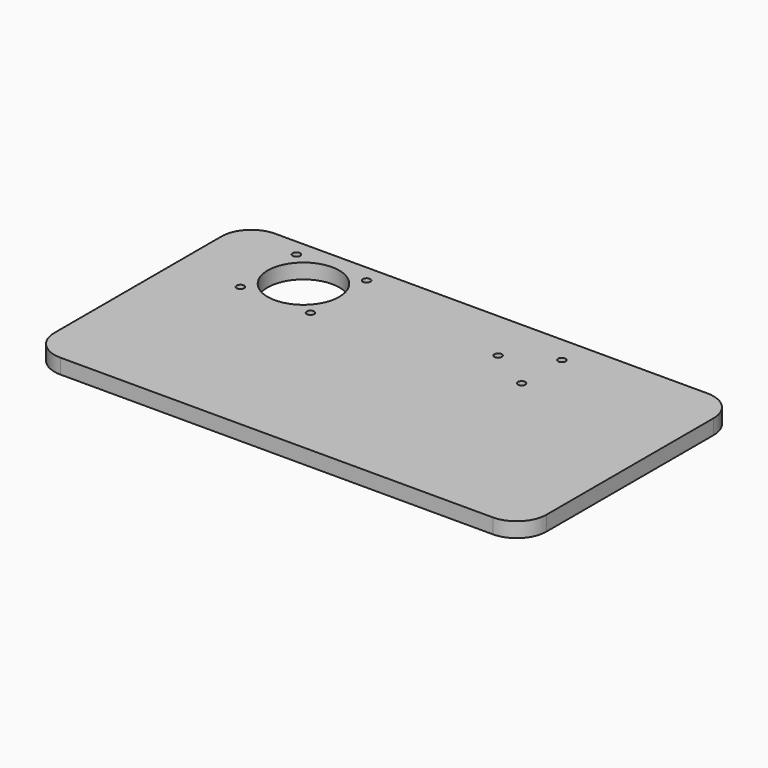
from build123d import *

# Parameters (mm, degrees)
SKETCH_W   = 330
SKETCH_H   = 180
SKETCH_R   = 2.5
SKETCH_R_2 = 24
PAD_DEPTH  = 10
FILLET_R   = 20


with BuildPart() as part:
    # Sketch → Pad (new body)
    with BuildSketch(Plane.XY):
        with Locations((98, -55)):
            Rectangle(SKETCH_W, SKETCH_H)
        with Locations((23.5, 23.5)):
            Circle(SKETCH_R, mode=Mode.SUBTRACT)
        with Locations((-23.5, 23.5)):
            Circle(SKETCH_R, mode=Mode.SUBTRACT)
        with Locations((-23.5, -23.5)):
            Circle(SKETCH_R, mode=Mode.SUBTRACT)
        with Locations((23.5, -23.5)):
            Circle(SKETCH_R, mode=Mode.SUBTRACT)
        Circle(SKETCH_R_2, mode=Mode.SUBTRACT)
        with Locations((159.75, 16.887495)):
            Circle(SKETCH_R, mode=Mode.SUBTRACT)
        with Locations((130.5, 0)):
            Circle(SKETCH_R, mode=Mode.SUBTRACT)
        with Locations((159.75, -16.887495)):
            Circle(SKETCH_R, mode=Mode.SUBTRACT)
    extrude(amount=PAD_DEPTH)

    # Fillet
    fillet_edges = [part.edges().sort_by_distance(p)[0] for p in [
        (-67, -145, 5),
        (263, -145, 5),
        (263, 35, 5),
        (-67, 35, 5),
    ]]
    fillet(fillet_edges, radius=FILLET_R)


solid = part.part
